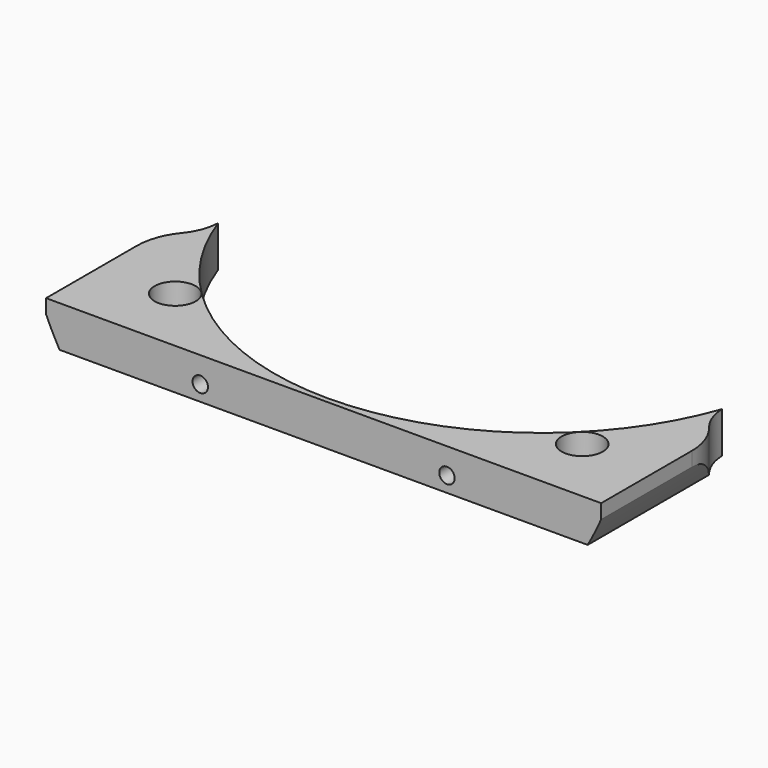
from build123d import *

# Parameters (mm, degrees)
CYLINDER1328_R               = 59
CYLINDER1328_DEPTH           = 40
CYLINDER1046_R               = 1.5
CYLINDER1046_DEPTH           = 20
CYLINDER1047_R               = 1.5
CYLINDER1047_DEPTH           = 20
CYLINDER1044_R               = 1.5
CYLINDER1044_DEPTH           = 20
CYLINDER1048_R               = 1.5
CYLINDER1048_DEPTH           = 20
BOX435_W                     = 6
BOX435_H                     = 2
BOX435_DEPTH                 = 6
BOX436_W                     = 6
BOX436_H                     = 2
BOX436_DEPTH                 = 6
BOX434_W                     = 6
BOX434_H                     = 2
BOX434_DEPTH                 = 6
BOX437_W                     = 6
BOX437_H                     = 2
BOX437_DEPTH                 = 6
CYLINDER1045_R               = 4
CYLINDER1045_DEPTH           = 20
CYLINDER1045_PLACEMENT_ANGLE = 45
CYLINDER1040_R               = 4
CYLINDER1040_DEPTH           = 20
CYLINDER1040_PLACEMENT_ANGLE = 45
CYLINDER1043_R               = 10
CYLINDER1043_DEPTH           = 40
CYLINDER1041_R               = 10
CYLINDER1041_DEPTH           = 40
CYLINDER1042_R               = 52
CYLINDER1042_DEPTH           = 8
BOX438_W                     = 108
BOX438_H                     = 36
BOX438_DEPTH                 = 8
FILLET016_R                  = 12


with BuildPart() as obj1:
    # Cylinder1328 → Cylinder1328 (new body)
    with BuildSketch(Plane(origin=(0, -17, 21), x_dir=(1, 0, 0), z_dir=(0, -1, 0))):
        Circle(CYLINDER1328_R)
    extrude(amount=CYLINDER1328_DEPTH)


with BuildPart() as obj2:
    # Cylinder1046 → Cylinder1046 (new body)
    with BuildSketch(Plane(origin=(24, -40, -5), x_dir=(1, 0, 0), z_dir=(0, -1, 0))):
        Circle(CYLINDER1046_R)
    extrude(amount=CYLINDER1046_DEPTH)


with BuildPart() as obj3:
    # Cylinder1047 → Cylinder1047 (new body)
    with BuildSketch(Plane(origin=(51, -40, 7), x_dir=(1, 0, 0), z_dir=(0, -1, 0))):
        Circle(CYLINDER1047_R)
    extrude(amount=CYLINDER1047_DEPTH)


with BuildPart() as obj4:
    # Cylinder1044 → Cylinder1044 (new body)
    with BuildSketch(Plane(origin=(-51, -40, 7), x_dir=(1, 0, 0), z_dir=(0, -1, 0))):
        Circle(CYLINDER1044_R)
    extrude(amount=CYLINDER1044_DEPTH)


with BuildPart() as compound827:
    # Cylinder1048 → Cylinder1048 (new body)
    with BuildSketch(Plane(origin=(-24, -40, -5), x_dir=(1, 0, 0), z_dir=(0, -1, 0))):
        Circle(CYLINDER1048_R)
    extrude(amount=CYLINDER1048_DEPTH)

    # Compound827: union obj2, obj3, obj4
    add(obj2.part)
    add(obj3.part)
    add(obj4.part)


with BuildPart() as krychle435:
    # Box435 → Box435 (new body)
    with BuildSketch(Plane(origin=(21, -47, -8), x_dir=(1, 0, 0), z_dir=(0, 0, 1))):
        with Locations((3, 1)):
            Rectangle(BOX435_W, BOX435_H)
    extrude(amount=BOX435_DEPTH)


with BuildPart() as krychle436:
    # Box436 → Box436 (new body)
    with BuildSketch(Plane(origin=(48, -45, 4), x_dir=(1, 0, 0), z_dir=(0, 0, 1))):
        with Locations((3, 1)):
            Rectangle(BOX436_W, BOX436_H)
    extrude(amount=BOX436_DEPTH)


with BuildPart() as krychle434:
    # Box434 → Box434 (new body)
    with BuildSketch(Plane(origin=(-54, -45, 4), x_dir=(1, 0, 0), z_dir=(0, 0, 1))):
        with Locations((3, 1)):
            Rectangle(BOX434_W, BOX434_H)
    extrude(amount=BOX434_DEPTH)


with BuildPart() as compound826:
    # Box437 → Box437 (new body)
    with BuildSketch(Plane(origin=(-27, -47, -8), x_dir=(1, 0, 0), z_dir=(0, 0, 1))):
        with Locations((3, 1)):
            Rectangle(BOX437_W, BOX437_H)
    extrude(amount=BOX437_DEPTH)

    # Compound826: union Krychle435, Krychle436, Krychle434
    add(krychle435.part)
    add(krychle436.part)
    add(krychle434.part)


with BuildPart() as obj5:
    # Cylinder1045 → Cylinder1045 (new body)
    with BuildSketch(Plane.XY):
        Circle(CYLINDER1045_R)
    extrude(amount=CYLINDER1045_DEPTH)


with BuildPart() as obj5_1:
    # Cylinder1045 placement: moved
    add(obj5.part.moved(Location((39.6, -39.6, -10))).rotate(Axis((39.6, -39.6, -10), (0, 0, 1)), CYLINDER1045_PLACEMENT_ANGLE))


with BuildPart() as compound829:
    # Cylinder1040 → Cylinder1040 (new body)
    with BuildSketch(Plane.XY):
        Circle(CYLINDER1040_R)
    extrude(amount=CYLINDER1040_DEPTH)


with BuildPart() as compound829_1:
    # Cylinder1040 placement: moved
    add(compound829.part.moved(Location((-39.6, -39.6, -10))).rotate(Axis((-39.6, -39.6, -10), (0, 0, -1)), CYLINDER1040_PLACEMENT_ANGLE))

    # Compound829: union obj5
    add(obj5_1.part)


with BuildPart() as obj6:
    # Cylinder1043 → Cylinder1043 (new body)
    with BuildSketch(Plane(origin=(-59, -17, 0), x_dir=(1, 0, 0), z_dir=(0, 0, 1))):
        Circle(CYLINDER1043_R)
    extrude(amount=CYLINDER1043_DEPTH)


with BuildPart() as compound828:
    # Cylinder1041 → Cylinder1041 (new body)
    with BuildSketch(Plane(origin=(59, -17, 0), x_dir=(1, 0, 0), z_dir=(0, 0, 1))):
        Circle(CYLINDER1041_R)
    extrude(amount=CYLINDER1041_DEPTH)

    # Compound828: union obj6
    add(obj6.part)


with BuildPart() as obj7:
    # Cylinder1042 → Cylinder1042 (new body)
    with BuildSketch(Plane.XY.offset(20)):
        Circle(CYLINDER1042_R)
    extrude(amount=CYLINDER1042_DEPTH)


with BuildPart() as common003:
    # Box438 → Box438 (new body)
    with BuildSketch(Plane(origin=(-54, -53, 20), x_dir=(1, 0, 0), z_dir=(0, 0, 1))):
        with Locations((54, 18)):
            Rectangle(BOX438_W, BOX438_H)
    extrude(amount=BOX438_DEPTH)

    # Cut435: cut obj7
    add(obj7.part, mode=Mode.SUBTRACT)


with BuildPart() as common003_1:
    # Cut435 placement: moved
    add(common003.part.moved(Location((0, 0, -20))))

    # Cut438: cut Compound828
    add(compound828.part, mode=Mode.SUBTRACT)


with BuildPart() as common003_2:
    # Cut438 placement: moved
    add(common003_1.part.moved(Location((0, 0, -8))))

    # Cut436: cut Compound829
    add(compound829_1.part, mode=Mode.SUBTRACT)

    # Cut437: cut Compound826
    add(compound826.part, mode=Mode.SUBTRACT)

    # Cut434: cut Compound827
    add(compound827.part, mode=Mode.SUBTRACT)

    # Fillet016
    fillet016_edges = [common003_2.edges().sort_by_distance(p)[0] for p in [
        (-54, -25.660254, -4),
        (54, -25.660254, -4),
    ]]
    fillet(fillet016_edges, radius=FILLET016_R)

    # Common003: intersect obj1
    add(obj1.part, mode=Mode.INTERSECT)


solid = common003_2.part
